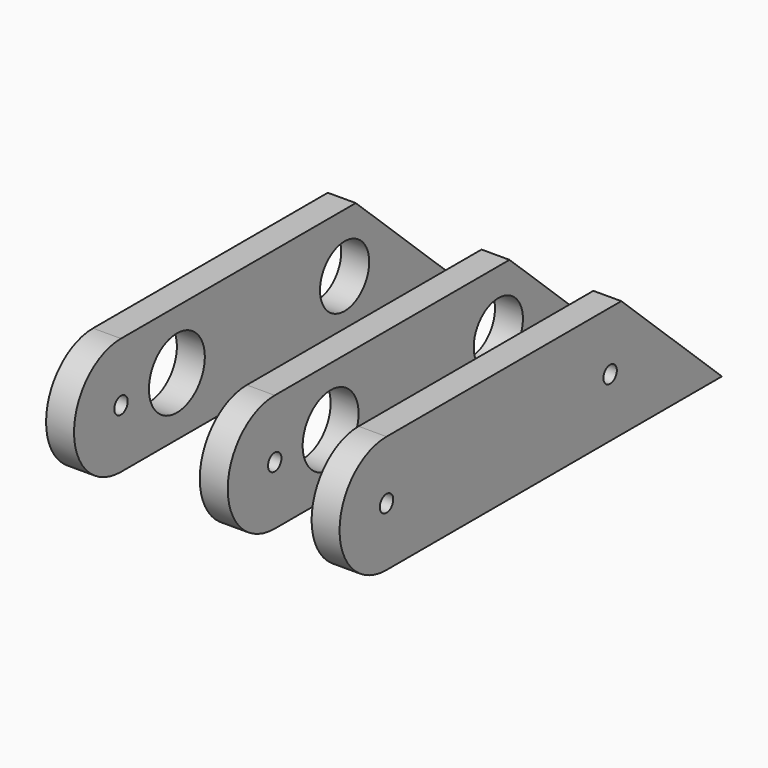
from build123d import *

# Parameters (mm, degrees)
SKETCH_R        = 12.5
SKETCH_R_2      = 11
SKETCH_R_3      = 3
PAD_DEPTH       = 5
COPYSKETCH001_R = 3
PAD001_DEPTH    = 10


with BuildPart() as body:
    # Sketch → Pad (new body, symmetric)
    with BuildSketch(Plane.YZ):
        with BuildLine():
            ThreePointArc((-25, 42), (-46, 21), (-25, 0))
            Line((125, 0), (-25, 0))
            Line((80, 42), (125, 0))
            Line((-25, 42), (80, 42))
        make_face()
        with Locations((0, 21)):
            Circle(SKETCH_R, mode=Mode.SUBTRACT)
        with Locations((75, 21)):
            Circle(SKETCH_R_2, mode=Mode.SUBTRACT)
        with Locations((-25, 21)):
            Circle(SKETCH_R_3, mode=Mode.SUBTRACT)
    extrude(amount=PAD_DEPTH, both=True)


with BuildPart() as body001:
    # Body001 base: copy of Body
    add(body.part)


with BuildPart() as body001_1:
    # Clone placement: moved
    add(body001.part.moved(Location((25, 0, 0))))


with BuildPart() as body002:
    # Body002 base: copy of Body
    add(body.part)


with BuildPart() as body002_1:
    # Clone001 placement: moved
    add(body002.part.moved(Location((80, 0, 0))))


with BuildPart() as outerpanel:
    # CopySketch001 → Pad001 (new body)
    with BuildSketch(Plane.YZ):
        with BuildLine():
            ThreePointArc((-25, 42), (-46, 21), (-25, 0))
            Line((125, 0), (-25, 0))
            Line((80, 42), (125, 0))
            Line((-25, 42), (80, 42))
        make_face()
        with Locations((75, 21)):
            Circle(COPYSKETCH001_R, mode=Mode.SUBTRACT)
        with Locations((-25, 21)):
            Circle(COPYSKETCH001_R, mode=Mode.SUBTRACT)
    extrude(amount=PAD001_DEPTH)


with BuildPart() as outerpanel_1:
    # Body003 placement: moved
    add(outerpanel.part.moved(Location((115, 0, 0))))


solid = Compound([body001_1.part, body002_1.part, outerpanel_1.part])
